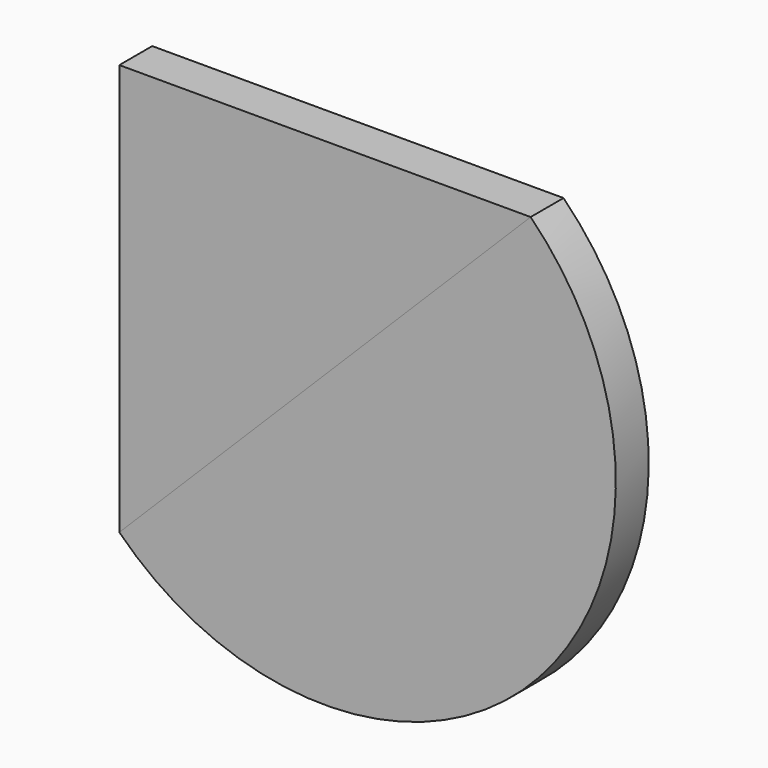
from build123d import *

# Parameters (mm, degrees)
F1_DEPTH = 25.4
F2_DEPTH = 25.4


with BuildPart() as f1:
    # F0 (on Front) → F1 (new body)
    with BuildSketch(Plane.XZ):
        Polygon((127, 127), (-127, 127), (-127, -127), align=None)
    extrude(amount=F1_DEPTH)


with BuildPart() as f2:
    # F0 (on Front) → F2 (new body)
    with BuildSketch(Plane.XZ):
        Polygon((127, 127), (-127, 127), (-127, -127), align=None)
        with BuildLine():
            ThreePointArc((-127, -127), (127, -127), (127, 127))
            Line((127, 127), (-127, -127))
        make_face()
    extrude(amount=F2_DEPTH)

    # F3: cut F1
    add(f1.part, mode=Mode.SUBTRACT)


solid = Compound([f1.part, f2.part])
